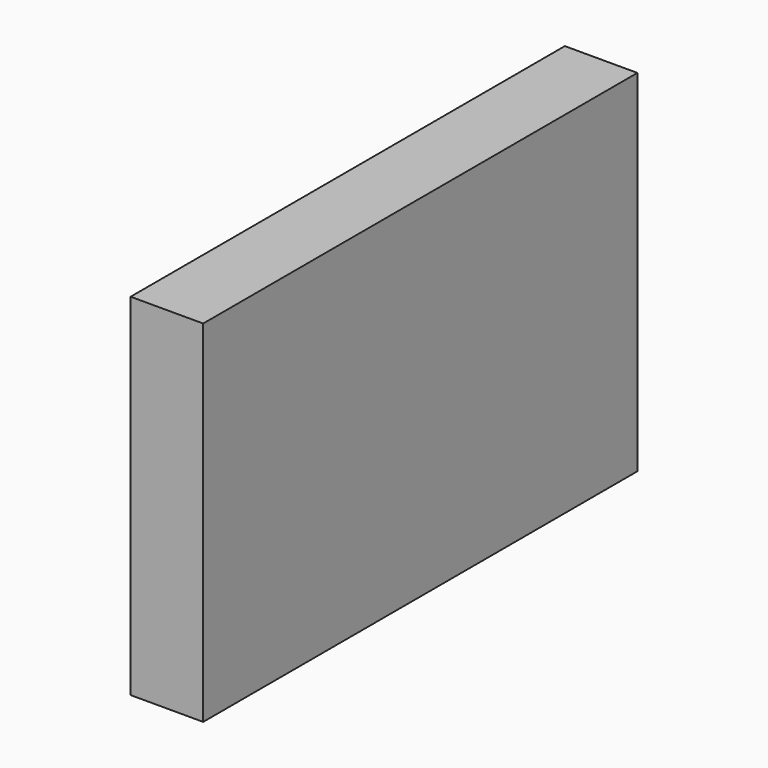
from build123d import *

# Parameters (mm, degrees)
F1_W     = 38.1
F1_H     = 184.15
F2_DEPTH = 284.978569


with BuildPart() as f2:
    # F1 (on face) → F2 (new body)
    with BuildSketch(Plane.XZ):
        Rectangle(F1_W, F1_H)
    extrude(amount=-F2_DEPTH)


solid = f2.part
